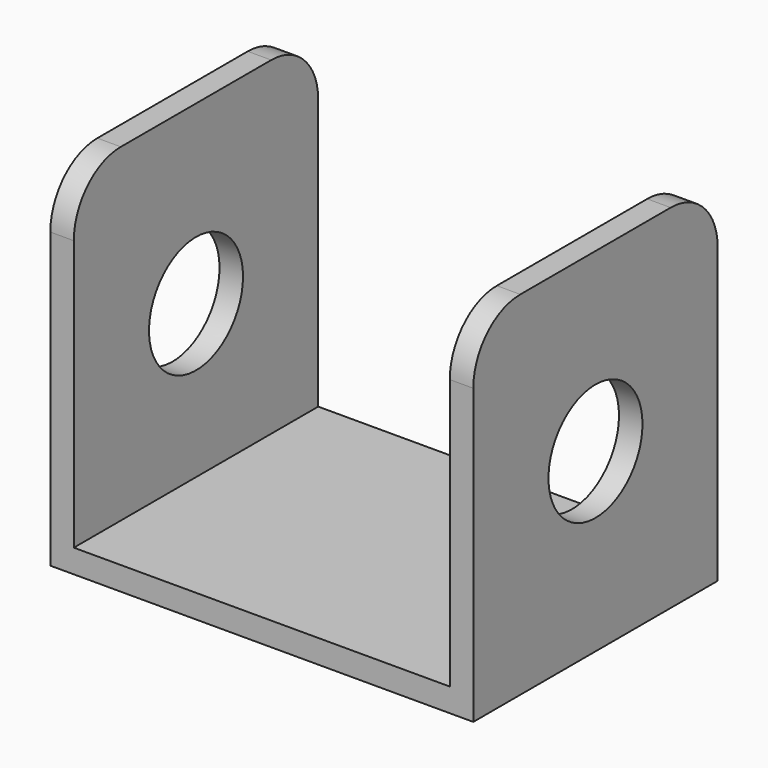
from build123d import *

# Parameters (mm, degrees)
F1_DEPTH = 26
F2_R     = 5
F3_DEPTH = 52.2
F4_R     = 5


with BuildPart() as f1:
    # F0 (on Front) → F1 (new body)
    with BuildSketch(Plane.XZ):
        Polygon((-36, 0), (0, 0), (0, 30), (-2, 30), (-2, 2), (-34, 2), (-34, 30), (-36, 30), align=None)
    extrude(amount=F1_DEPTH)

    # F2 (on face) → F3 (cut)
    with BuildSketch(Plane.YZ):
        with Locations((-13, 15)):
            Circle(F2_R)
    extrude(amount=-F3_DEPTH, mode=Mode.SUBTRACT)

    # F4
    f4_edges = [f1.edges().sort_by_distance(p)[0] for p in [
        (-1, 0, 30),
        (-1, -26, 30),
        (-35, 0, 30),
        (-35, -26, 30),
    ]]
    fillet(f4_edges, radius=F4_R)


solid = f1.part
